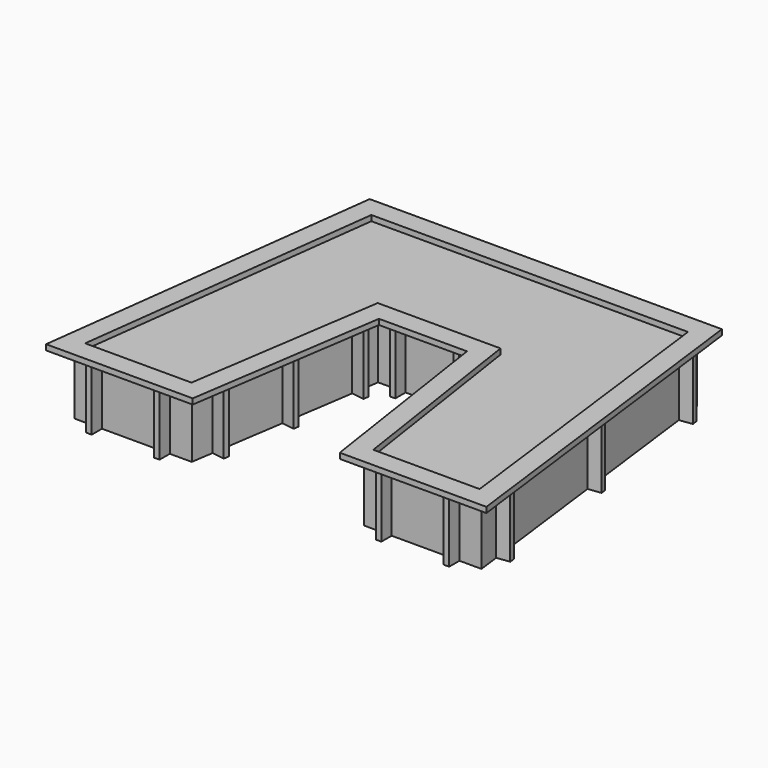
from build123d import *

# Parameters (mm, degrees)
F1_DEPTH = 38.1
F3_DEPTH = 38.101
F5_DEPTH = 419.1
F6_W     = 38.1
F6_H     = 88.9
F7_DEPTH = 419.1
F9_DEPTH = 419.1


with BuildPart() as f1:
    # F0 (on Top) → F1 (new body)
    with BuildSketch(Plane.XY):
        Polygon((1219.2, 0), (-1219.2, 0), (-1524, -2419.2749988375), (-509.016, -2419.2749988375), (-304.8, -1062.9629457523), (304.8, -1062.9629457523), (509.016, -2419.2749988375), (1524, -2419.2749988375), align=None)
    extrude(amount=F1_DEPTH)

    # F2 (on face) → F3 (cut, through all)
    with BuildSketch(Plane.XY.offset(38.1)):
        Polygon((1095.9961806148, -139.7), (-1095.9961806148, -139.7), (-1365.5950893618, -2279.5749988375), (-629.256430238, -2279.5749988375), (-425.040430238, -923.2629457523), (425.040430238, -923.2629457523), (629.256430238, -2279.5749988375), (1365.5950893618, -2279.5749988375), align=None)
    extrude(amount=-F3_DEPTH, mode=Mode.SUBTRACT)

    # F4 (on face) → F5 (join)
    with BuildSketch(Plane.XY):
        Polygon((-1129.5972222653, -101.6), (-1408.7964286268, -2317.6749988375), (-596.4635856277, -2317.6749988375), (-392.2475856277, -961.3629457523), (392.2475856277, -961.3629457523), (596.4635856277, -2317.6749988375), (1408.7964286268, -2317.6749988375), (1129.5972222653, -101.6), align=None)
        Polygon((-629.256430238, -2279.5749988375), (-1365.5950893618, -2279.5749988375), (-1095.9961806148, -139.7), (1095.9961806148, -139.7), (1365.5950893618, -2279.5749988374), (629.256430238, -2279.5749988375), (425.040430238, -923.2629457523), (-425.040430238, -923.2629457523), align=None, mode=Mode.SUBTRACT)
    extrude(amount=-F5_DEPTH)

    # F6 (on face) → F7 (join, through all)
    with BuildSketch(Plane.XY):
        with Locations((-1237.3464286268, -2362.1249988375)):
            Rectangle(F6_W, F6_H)
        with Locations((-767.9135856277, -2362.1249988375)):
            Rectangle(F6_W, F6_H)
        with Locations((767.9135856277, -2362.1249988375)):
            Rectangle(F6_W, F6_H)
        with Locations((1237.3464286268, -2362.1249988375)):
            Rectangle(F6_W, F6_H)
        Polygon((-568.1002522943, -2129.2983247979), (-573.772918961, -2166.9736596058), (-485.8638044092, -2180.209881828), (-480.1911377425, -2142.5345470201), align=None)
        Polygon((-414.9382522943, -1112.064284984), (-420.610918961, -1149.7396197919), (-332.7018044092, -1162.9758420142), (-327.0291377425, -1125.3005072062), align=None)
        with Locations((-220.7975856277, -1005.8129457523)):
            Rectangle(F6_W, F6_H)
        with Locations((220.7975856277, -1005.8129457523)):
            Rectangle(F6_W, F6_H)
        Polygon((480.1911377425, -2142.5345470201), (485.8638044092, -2180.209881828), (573.772918961, -2166.9736596058), (568.1002522943, -2129.2983247979), align=None)
        Polygon((327.0291377425, -1125.3005072062), (332.7018044092, -1162.9758420142), (420.610918961, -1149.7396197919), (414.9382522943, -1112.064284984), align=None)
        Polygon((-1473.1866629594, -2117.5566395533), (-1477.9491629594, -2155.3578114101), (-1389.7464286268, -2166.4703114101), (-1384.9839286268, -2128.6691395533), align=None)
        Polygon((-1236.8499565979, -241.6921874273), (-1241.6124565979, -279.4933592842), (-1153.4097222653, -290.6058592842), (-1148.6472222653, -252.8046874273), align=None)
        with Locations((-958.1472222653, -57.15)):
            Rectangle(F6_W, F6_H)
        with Locations((958.1472222653, -57.15)):
            Rectangle(F6_W, F6_H)
        Polygon((1148.6472222653, -252.8046874273), (1153.4097222653, -290.6058592842), (1241.6124565979, -279.4933592842), (1236.8499565979, -241.6921874273), align=None)
        Polygon((1384.9839286268, -2128.6691395533), (1389.7464286268, -2166.4703114101), (1477.9491629594, -2155.3578114101), (1473.1866629594, -2117.5566395533), align=None)
        Polygon((-491.5192522943, -1620.6813048909), (-497.191918961, -1658.3566396989), (-409.2828044092, -1671.5928619211), (-403.6101377425, -1633.9175271132), align=None)
        Polygon((403.6101377425, -1633.9175271132), (409.2828044092, -1671.5928619211), (497.191918961, -1658.3566396989), (491.5192522943, -1620.6813048909), align=None)
        Polygon((1266.815575446, -1190.7369134903), (1271.578075446, -1228.5380853471), (1359.7808097786, -1217.4255853471), (1355.0183097786, -1179.6244134903), align=None)
        Polygon((-1355.0183097786, -1179.6244134903), (-1359.7808097786, -1217.4255853471), (-1271.578075446, -1228.5380853471), (-1266.815575446, -1190.7369134903), align=None)
        with Locations((0, -57.15)):
            Rectangle(F6_W, F6_H)
    extrude(amount=-F7_DEPTH)


with BuildPart() as f9:
    # F8 (on face) → F9 (new body, through all)
    with BuildSketch(Plane(origin=(0, 0, -419.1), x_dir=(1, 0, 0), z_dir=(0, 0, -1))):
        Polygon((-629.256430238, 2279.5749988375), (-1365.5950893618, 2279.5749988375), (-1095.9961806148, 139.7), (1095.9961806148, 139.7), (1365.5950893618, 2279.5749988374), (629.256430238, 2279.5749988375), (425.040430238, 923.2629457523), (-425.040430238, 923.2629457523), align=None)
    extrude(amount=-F9_DEPTH)


solid = Compound([f1.part, f9.part])
